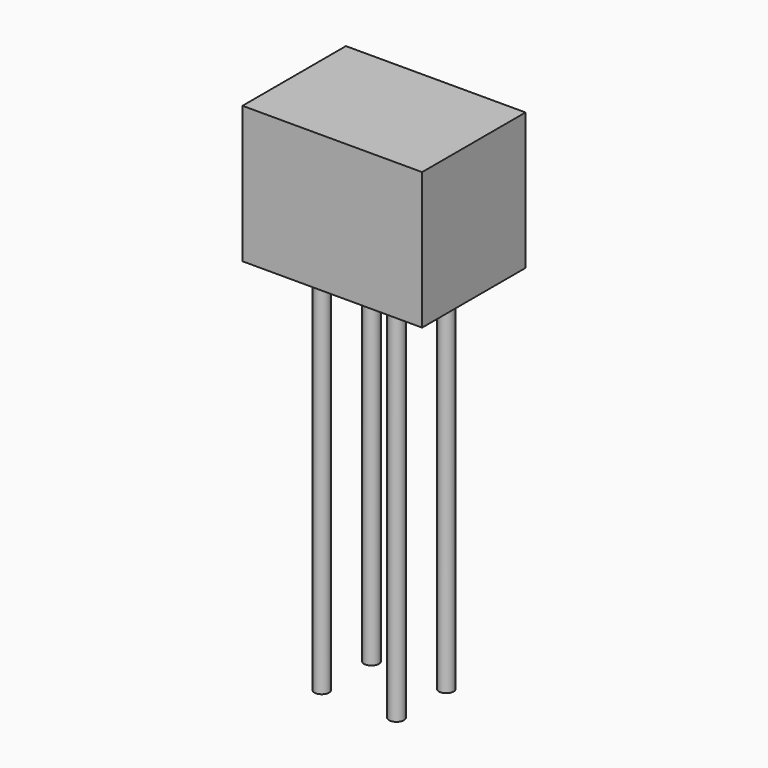
from build123d import *

# Parameters (mm, degrees)
F0_W          = 6.1
F0_H          = 4.39
F0_R          = 0.25
F1_DEPTH      = 4.65
F2_DEPTH      = 4.65
F2_DEPTH_BACK = 12.7


with BuildPart() as f1:
    # F0 (on Top) → F1 (new body)
    with BuildSketch(Plane.XY):
        Rectangle(F0_W, F0_H)
        with Locations((-1.27, -1.055)):
            Circle(F0_R, mode=Mode.SUBTRACT)
        with Locations((1.27, -1.055)):
            Circle(F0_R, mode=Mode.SUBTRACT)
        with Locations((-1.27, 1.055)):
            Circle(F0_R, mode=Mode.SUBTRACT)
        with Locations((1.27, 1.055)):
            Circle(F0_R, mode=Mode.SUBTRACT)
    extrude(amount=F1_DEPTH)

    # F0 (on Top) → F2 (join, two sides)
    with BuildSketch(Plane.XY) as f2_sk:
        with Locations((1.27, 1.055)):
            Circle(F0_R)
        with Locations((-1.27, 1.055)):
            Circle(F0_R)
        with Locations((1.27, -1.055)):
            Circle(F0_R)
        with Locations((-1.27, -1.055)):
            Circle(F0_R)
    extrude(amount=F2_DEPTH)
    extrude(f2_sk.sketch, amount=-F2_DEPTH_BACK)


solid = f1.part
